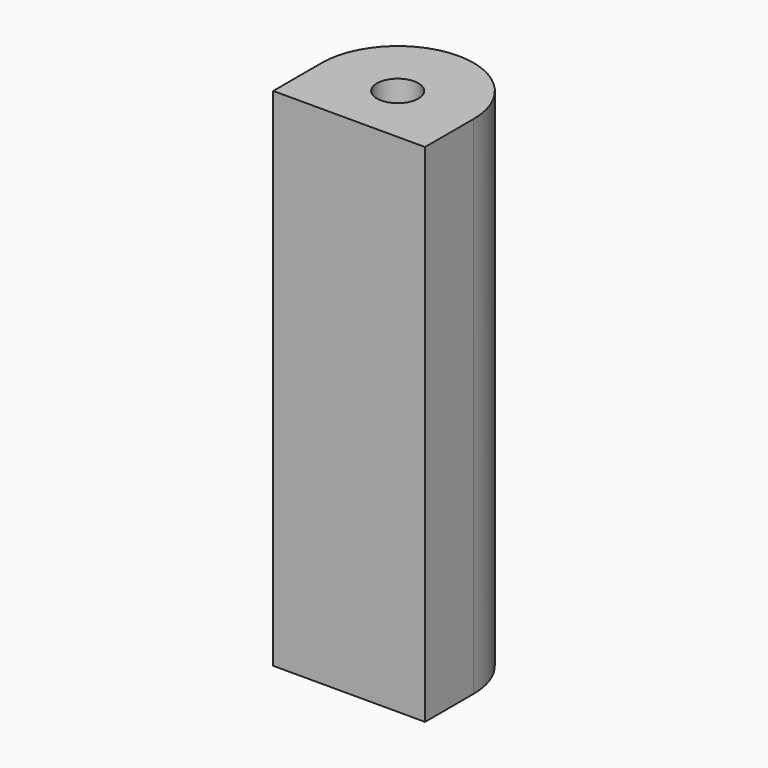
from build123d import *

# Parameters (mm, degrees)
F0_R     = 2.05
F1_DEPTH = 50


with BuildPart() as f1:
    # F0 (on Top) → F1 (new body)
    with BuildSketch(Plane.XY):
        with BuildLine():
            ThreePointArc((7.5, 0), (0, 7.5), (-7.5, 0))
            Line((-7.5, 0), (-7.5, -6))
            Line((-7.5, -6), (7.5, -6))
            Line((7.5, -6), (7.5, 0))
        make_face()
        Circle(F0_R, mode=Mode.SUBTRACT)
    extrude(amount=F1_DEPTH)


solid = f1.part
